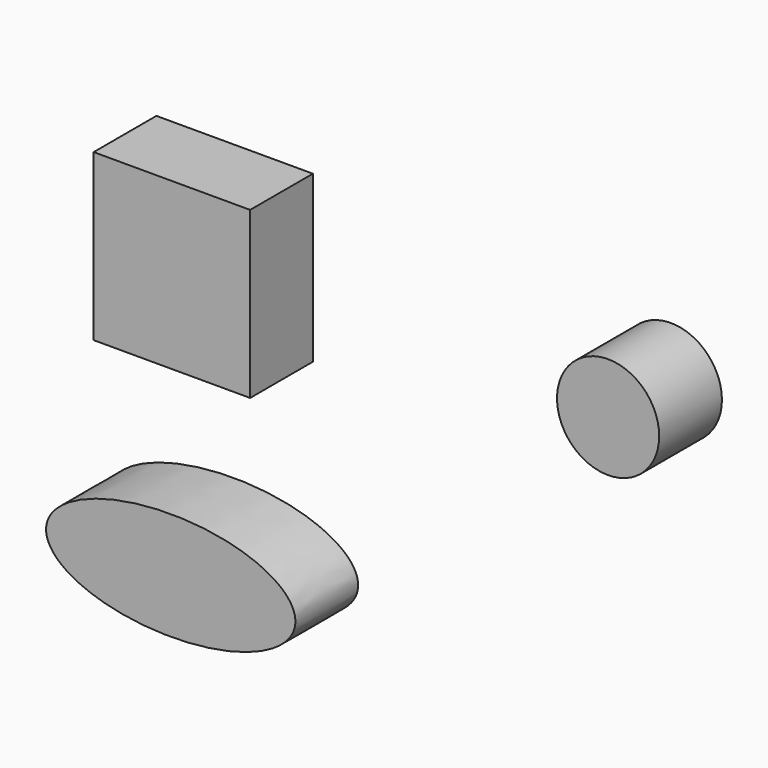
from build123d import *

# Parameters (mm, degrees)
F0_W     = 49.880527
F0_H     = 52.778362
F1_DEPTH = 12.5
F2_R     = 16.282195
F3_DEPTH = 25
F5_DEPTH = 25


with BuildPart() as f1:
    # F0 (on Front) → F1 (new body, symmetric)
    with BuildSketch(Plane.XZ):
        with Locations((-24.940264, 34.944792)):
            Rectangle(F0_W, F0_H)
    extrude(amount=F1_DEPTH, both=True)


with BuildPart() as f3:
    # F2 (on Front) → F3 (new body)
    with BuildSketch(Plane.XZ):
        with Locations((124.098122, 48.609804)):
            Circle(F2_R)
    extrude(amount=F3_DEPTH)


with BuildPart() as f5:
    # F4 (on Front) → F5 (new body)
    with BuildSketch(Plane.XZ):
        with BuildLine():
            add(Edge.make_bspline(
                [(24.422659, -41.12624), (24.422659, -11.279306), (-35.178757, -26.202773), (-94.780172, -41.12624), (-35.178757, -56.049707), (24.422659, -70.973174), (24.422659, -41.12624)],
                knots=[0, 0, 0, 2.094395, 2.094395, 4.18879, 4.18879, 6.283185, 6.283185, 6.283185], degree=2, weights=[1, 0.5, 1, 0.5, 1, 0.5, 1]))
        make_face()
    extrude(amount=F5_DEPTH)


solid = Compound([f1.part, f3.part, f5.part])
